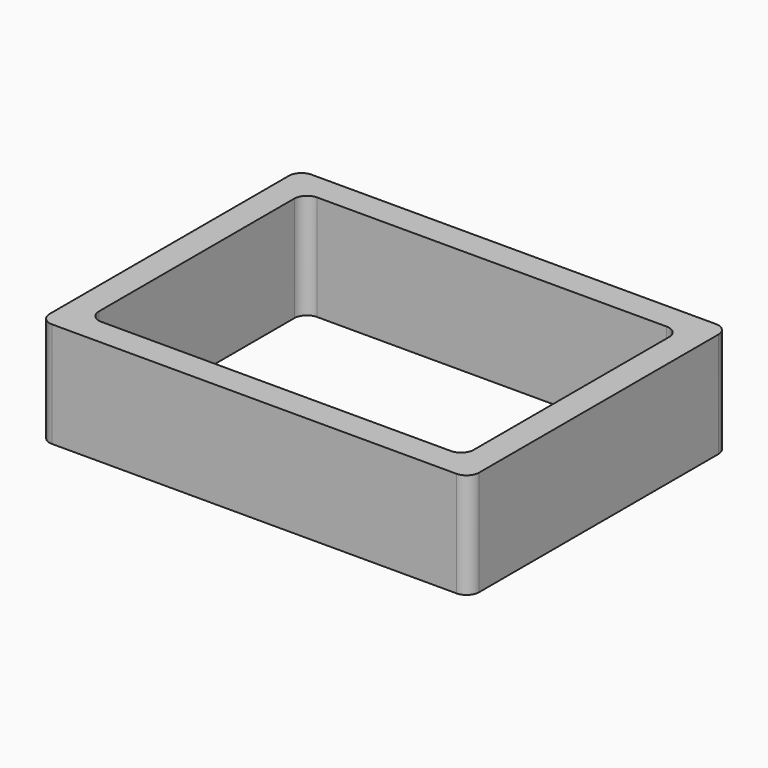
from build123d import *

# Parameters (mm, degrees)
F0_W     = 102
F0_H     = 77
F0_W_2   = 89
F0_H_2   = 64
F1_DEPTH = 25
F2_D     = 3.2
F2_DEPTH = 1.5
F2_TIP   = 0.9613769904
F3_R     = 3


with BuildPart() as f1:
    # F0 (on Top) → F1 (new body)
    with BuildSketch(Plane.XY):
        Rectangle(F0_W, F0_H)
        Rectangle(F0_W_2, F0_H_2, mode=Mode.SUBTRACT)
    extrude(amount=F1_DEPTH)

    # F2
    with Locations(Plane(origin=(0, 0, 0), x_dir=(1, 0, 0), z_dir=(0, 0, -1))):
        with Locations((-47.75, 35.25), (0, 35.25), (47.75, 35.25), (47.75, 0), (47.75, -35.25), (0, -35.25), (-47.75, -35.25), (-47.75, 0)):
            Hole(F2_D / 2, depth=F2_DEPTH)
            with Locations((0, 0, -(F2_DEPTH + F2_TIP / 2))):  # 118° drill point
                Cone(0, F2_D / 2, F2_TIP, mode=Mode.SUBTRACT)

    # F3
    f3_edges = [f1.edges().sort_by_distance(p)[0] for p in [
        (-44.5, -32, 12.5),
        (44.5, -32, 12.5),
        (-44.5, 32, 12.5),
        (44.5, 32, 12.5),
        (-51, -38.5, 12.5),
        (-51, 38.5, 12.5),
        (51, 38.5, 12.5),
        (51, -38.5, 12.5),
    ]]
    fillet(f3_edges, radius=F3_R)


solid = f1.part
